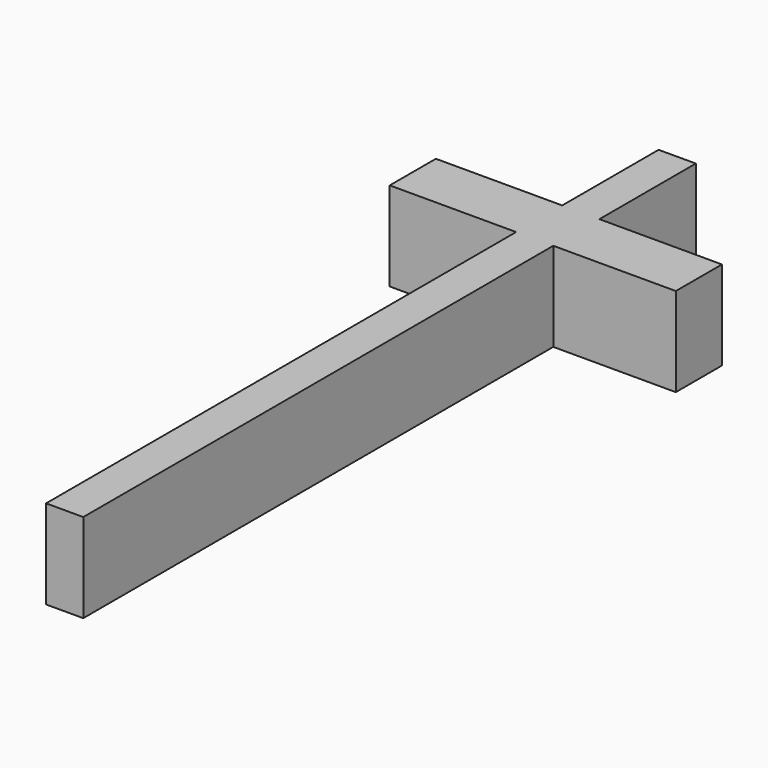
from build123d import *

# Parameters (mm, degrees)
F0_W     = 10.6069985777
F0_H     = 34.369584173
F0_W_2   = 34.9540431052
F0_H_2   = 16.4419040084
F0_W_3   = 36.0461492091
F0_H_3   = 167.6054298878
F1_DEPTH = 25.4


with BuildPart() as f1:
    # F0 (on Top) → F1 (new body)
    with BuildSketch(Plane.XY):
        with Locations((-22.4553951994, 33.6266960949)):
            Rectangle(F0_W, F0_H)
        with Locations((0.3251256421, 8.2209520042)):
            Rectangle(F0_W_2, F0_H_2)
        with Locations((-22.4553951994, 8.2209520042)):
            Rectangle(F0_W, F0_H_2)
        with Locations((-45.7819690928, 8.2209520042)):
            Rectangle(F0_W_3, F0_H_2)
        with Locations((-22.4553951994, -83.8027149439)):
            Rectangle(F0_W, F0_H_3)
    extrude(amount=F1_DEPTH)


solid = f1.part
